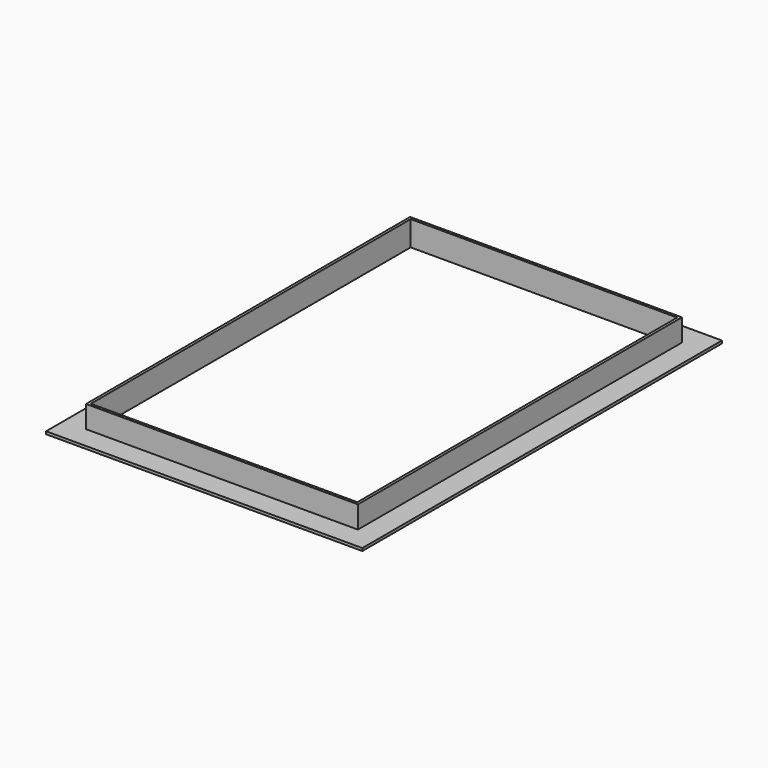
from build123d import *

# Parameters (mm, degrees)
SKETCH048_W            = 600
SKETCH048_H            = 60
PAD003_DEPTH           = 450
SKETCH049_W            = 612
SKETCH049_H            = 50
PAD010_DEPTH           = 456
SKETCH050_W            = 712
SKETCH050_H            = 1012
PAD011_DEPTH           = 6
CUT001_PLACEMENT_ANGLE = 180


with BuildPart() as body002:
    # Sketch048 → Pad003 (new body, symmetric)
    with BuildSketch(Plane.XZ):
        with Locations((0, 30)):
            Rectangle(SKETCH048_W, SKETCH048_H)
    extrude(amount=PAD003_DEPTH, both=True)


with BuildPart() as cut001:
    # Sketch049 → Pad010 (new body, symmetric)
    with BuildSketch(Plane.XZ):
        with Locations((0, 25)):
            Rectangle(SKETCH049_W, SKETCH049_H)
    extrude(amount=PAD010_DEPTH, both=True)

    # Sketch050 (on Face3 of Pad010) → Pad011 (join)
    with BuildSketch(Plane(origin=(0, 0, 50), x_dir=(-1, 0, 0), z_dir=(0, 0, 1))):
        Rectangle(SKETCH050_W, SKETCH050_H)
    extrude(amount=PAD011_DEPTH)

    # Cut001: cut Body002
    add(body002.part, mode=Mode.SUBTRACT)


with BuildPart() as cut001_1:
    # Cut001 placement: moved
    add(cut001.part.rotate(Axis((0, 0, 0), (0, 1, 0)), CUT001_PLACEMENT_ANGLE))


solid = cut001_1.part
